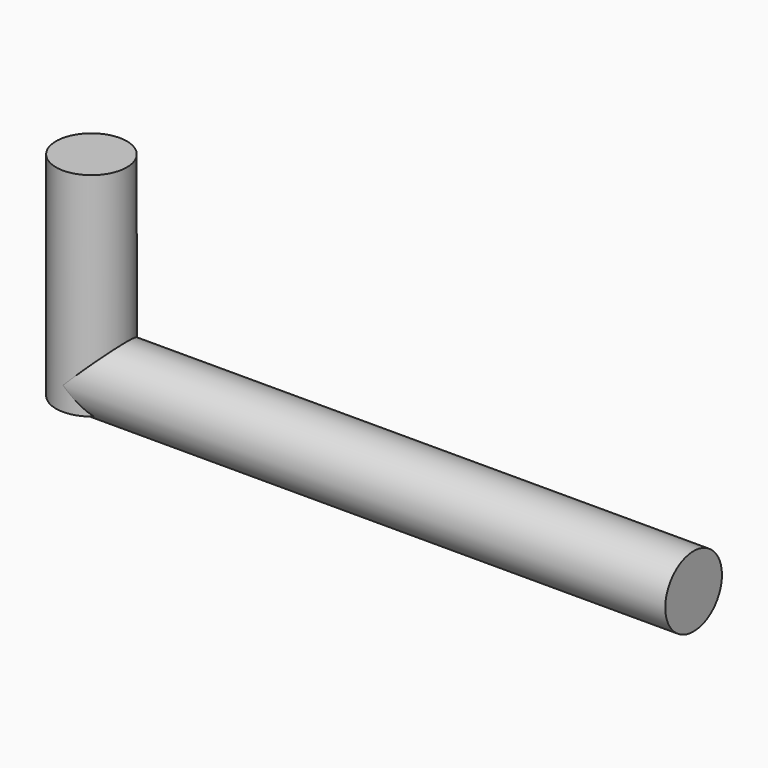
from build123d import *

# Parameters (mm, degrees)
CYLINDER051_R     = 3
CYLINDER051_DEPTH = 18
CYLINDER050_R     = 3
CYLINDER050_DEPTH = 51


with BuildPart() as cylindre047:
    # Cylinder051 → Cylinder051 (new body)
    with BuildSketch(Plane(origin=(-32, 9, -130), x_dir=(1, 0, 0), z_dir=(0, 0, 1))):
        Circle(CYLINDER051_R)
    extrude(amount=CYLINDER051_DEPTH)


with BuildPart() as fusion025:
    # Cylinder050 → Cylinder050 (new body)
    with BuildSketch(Plane(origin=(-32, 9, -128), x_dir=(0, 0, -1), z_dir=(1, 0, 0))):
        Circle(CYLINDER050_R)
    extrude(amount=CYLINDER050_DEPTH)

    # Fusion025: union Cylindre047
    add(cylindre047.part)


solid = fusion025.part
